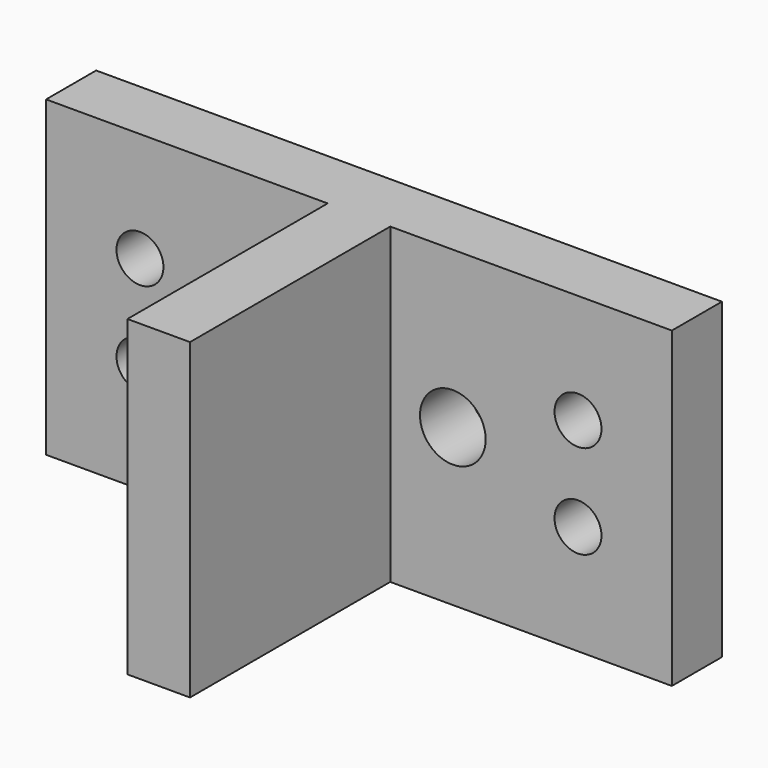
from build123d import *

# Parameters (mm, degrees)
SKETCH_W     = 20
SKETCH_H     = 10
SKETCH_R     = 0.75
SKETCH_R_2   = 1.05
PAD_DEPTH    = 2
SKETCH001_W  = 2
SKETCH001_H  = 10
PAD001_DEPTH = 8


with BuildPart() as part:
    # Sketch → Pad (new body)
    with BuildSketch(Plane.XZ):
        with Locations((10, 5)):
            Rectangle(SKETCH_W, SKETCH_H)
        with Locations((3, 3.5)):
            Circle(SKETCH_R, mode=Mode.SUBTRACT)
        with Locations((3, 6.5)):
            Circle(SKETCH_R, mode=Mode.SUBTRACT)
        with Locations((17, 3.5)):
            Circle(SKETCH_R, mode=Mode.SUBTRACT)
        with Locations((17, 6.5)):
            Circle(SKETCH_R, mode=Mode.SUBTRACT)
        with Locations((7, 5)):
            Circle(SKETCH_R_2, mode=Mode.SUBTRACT)
        with Locations((13, 5)):
            Circle(SKETCH_R_2, mode=Mode.SUBTRACT)
    extrude(amount=PAD_DEPTH)

    # Sketch001 (on Face12 of Pad) → Pad001 (join)
    with BuildSketch(Plane.XZ.offset(2)):
        with Locations((10, 5)):
            Rectangle(SKETCH001_W, SKETCH001_H)
    extrude(amount=PAD001_DEPTH)


solid = part.part
